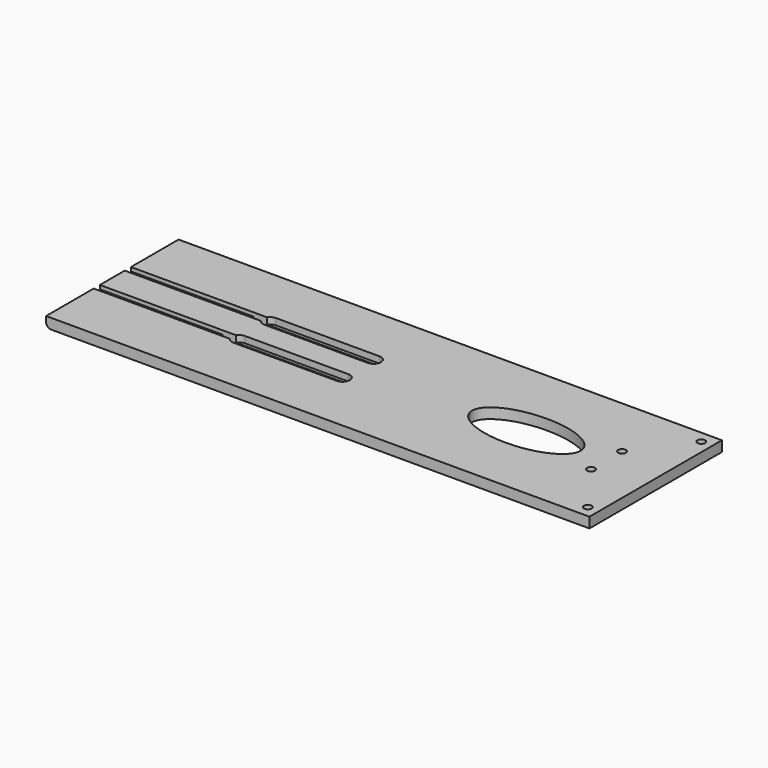
from build123d import *

# Parameters (mm, degrees)
SKETCH049_R     = 1.5
PAD014_DEPTH    = 4
POCKET031_DEPTH = 2.5
FILLET001_R     = 2
POCKET038_DEPTH = 2.5


with BuildPart() as part:
    # Sketch049 → Pad014 (new body)
    with BuildSketch(Plane.XY):
        with BuildLine():
            Line((-105, 9), (-105, 32))
            Line((-105, 32), (105, 32))
            Line((105, 32), (105, -32))
            Line((105, -32), (-105, -32))
            Line((-105, -32), (-105, -9))
            Line((-105, -9), (-10, -9))
            ThreePointArc((-10, -9), (-8.5, -7.5), (-10, -6))
            Line((-10, -6), (-105, -6))
            Line((-105, -6), (-105, 6))
            Line((-105, 6), (-10, 6))
            ThreePointArc((-10, 6), (-8.5, 7.5), (-10, 9))
            Line((-10, 9), (-105, 9))
        make_face()
        with Locations((100.7, 27.4)):
            Circle(SKETCH049_R, mode=Mode.SUBTRACT)
        with Locations((86, 7.5)):
            Circle(SKETCH049_R, mode=Mode.SUBTRACT)
        with Locations((86, -7.5)):
            Circle(SKETCH049_R, mode=Mode.SUBTRACT)
        with Locations((100.7, -27.4)):
            Circle(SKETCH049_R, mode=Mode.SUBTRACT)
        with BuildLine():
            add(Edge.make_bspline(
                [(76, 0), (76, 17.3205080757), (44.5, 8.6602540378), (13, 0), (44.5, -8.6602540378), (76, -17.3205080757), (76, 0)],
                knots=[0, 0, 0, 2.0943951024, 2.0943951024, 4.1887902048, 4.1887902048, 6.2831853072, 6.2831853072, 6.2831853072], degree=2, weights=[1, 0.5, 1, 0.5, 1, 0.5, 1]))
        make_face(mode=Mode.SUBTRACT)
    extrude(amount=PAD014_DEPTH)

    # Sketch050 → Pocket031 (cut)
    with BuildSketch(Plane.XY):
        with BuildLine():
            ThreePointArc((-60, 4.7), (-57.2, 7.5), (-60, 10.3))
            Line((-60, 10.3), (-105, 10.3))
            ThreePointArc((-105, 10.3), (-107.8, 7.5), (-105, 4.7))
            Line((-60, 4.7), (-105, 4.7))
        make_face()
        with BuildLine():
            ThreePointArc((-60, -10.3), (-57.2, -7.5), (-60, -4.7))
            Line((-60, -4.7), (-105, -4.7))
            ThreePointArc((-105, -4.7), (-107.8, -7.5), (-105, -10.3))
            Line((-60, -10.3), (-105, -10.3))
        make_face()
    extrude(amount=POCKET031_DEPTH, mode=Mode.SUBTRACT)

    # Fillet001
    fillet001_edges = [part.edges().sort_by_distance(p)[0] for p in [
        (-105, -21.15, 0),
    ]]
    fillet(fillet001_edges, radius=FILLET001_R)

    # Sketch060 → Pocket038 (cut)
    with BuildSketch(Plane.XY.offset(4)):
        with BuildLine():
            ThreePointArc((-10, 4.7), (-7.2, 7.5), (-10, 10.3))
            Line((-10, 10.3), (-50, 10.3))
            ThreePointArc((-50, 10.3), (-52.8, 7.5), (-50, 4.7))
            Line((-10, 4.7), (-50, 4.7))
        make_face()
        with BuildLine():
            ThreePointArc((-10, -10.3), (-7.2, -7.5), (-10, -4.7))
            Line((-10, -4.7), (-50, -4.7))
            ThreePointArc((-50, -4.7), (-52.8, -7.5), (-50, -10.3))
            Line((-10, -10.3), (-50, -10.3))
        make_face()
    extrude(amount=-POCKET038_DEPTH, mode=Mode.SUBTRACT)


solid = part.part
